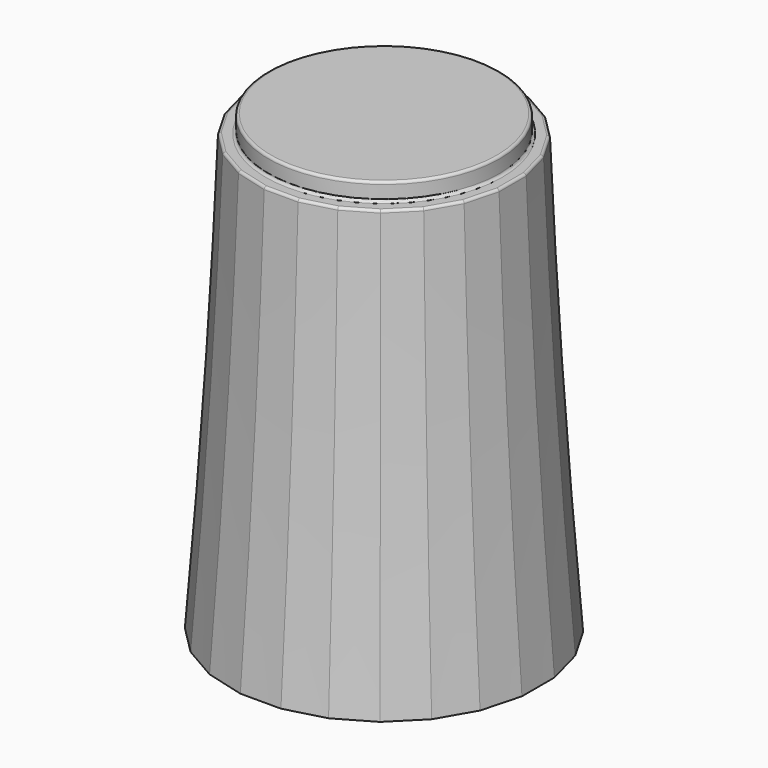
from build123d import *

# Parameters (mm, degrees)
SKETCH351_R     = 4.5
PAD060_DEPTH    = 0.7
SKETCH352_R     = 5
POCKET050_DEPTH = 1
SKETCH342_R     = 4.65
POCKET051_DEPTH = 1
POCKET052_DEPTH = 8
CHAMFER041_SIZE = 1.4
CHAMFER042_SIZE = 0.3
FILLET022_R     = 0.1


with BuildPart() as part:
    # Sketch349 → AdditiveLoft016 section 0
    with BuildSketch(Plane.XY):
        Polygon((-0.789915, 6), (-2.315914, 5.59111), (-3.684086, 4.801195), (-4.801195, 3.684086), (-5.59111, 2.315914), (-6, 0.789915), (-6, -0.789915), (-5.59111, -2.315914), (-4.801195, -3.684086), (-3.684086, -4.801195), (-2.315914, -5.59111), (-0.789915, -6), (0.789915, -6), (2.315914, -5.59111), (3.684086, -4.801195), (4.801195, -3.684086), (5.59111, -2.315914), (6, -0.789915), (6, 0.789915), (5.59111, 2.315914), (4.801195, 3.684086), (3.684086, 4.801195), (2.315914, 5.59111), (0.789915, 6), align=None)
    # Sketch348 → AdditiveLoft016 section 1
    with BuildSketch(Plane.XY.offset(7)):
        Polygon((-0.724089, 5.5), (-2.122921, 5.125184), (-3.377079, 4.401095), (-4.401095, 3.377079), (-5.125184, 2.122921), (-5.5, 0.724089), (-5.5, -0.724089), (-5.125184, -2.122921), (-4.401095, -3.377079), (-3.377079, -4.401095), (-2.122921, -5.125184), (-0.724089, -5.5), (0.724089, -5.5), (2.122921, -5.125184), (3.377079, -4.401095), (4.401095, -3.377079), (5.125184, -2.122921), (5.5, -0.724089), (5.5, 0.724089), (5.125184, 2.122921), (4.401095, 3.377079), (3.377079, 4.401095), (2.122921, 5.125184), (0.724089, 5.5), align=None)
    # Sketch350 → AdditiveLoft016 section 2
    with BuildSketch(Plane.XY.offset(17)):
        Polygon((-4.659258, 1.929928), (-5, 0.658262), (-5, -0.658262), (-4.659258, -1.929928), (-4.000996, -3.070072), (-3.070072, -4.000996), (-1.929928, -4.659258), (-0.658262, -5), (0.658262, -5), (1.929928, -4.659258), (3.070072, -4.000996), (4.000996, -3.070072), (4.659258, -1.929928), (5, -0.658262), (5, 0.658262), (4.659258, 1.929928), (4.000996, 3.070072), (3.070072, 4.000996), (1.929928, 4.659258), (0.658262, 5), (-0.658262, 5), (-1.929928, 4.659258), (-3.070072, 4.000996), (-4.000996, 3.070072), align=None)
    loft()

    # Sketch351 (on Face3 of AdditiveLoft016) → Pad060 (new body)
    with BuildSketch(Plane.XY.offset(17)):
        Circle(SKETCH351_R)
    extrude(amount=PAD060_DEPTH)

    # Sketch352 (on Face1 of Pad060) → Pocket050 (cut)
    with BuildSketch(Plane(origin=(0, 0, 0), x_dir=(1, 0, 0), z_dir=(0, 0, -1))):
        Circle(SKETCH352_R)
    extrude(amount=-POCKET050_DEPTH, mode=Mode.SUBTRACT)

    # Sketch342 (on Face28 of Pocket050) → Pocket051 (cut)
    with BuildSketch(Plane(origin=(0, 0, 1), x_dir=(1, 0, 0), z_dir=(0, 0, -1))):
        Circle(SKETCH342_R)
    extrude(amount=-POCKET051_DEPTH, mode=Mode.SUBTRACT)

    # Sketch353 (on Face32 of Pocket051) → Pocket052 (cut)
    with BuildSketch(Plane(origin=(0, 0, 2), x_dir=(1, 0, 0), z_dir=(0, 0, -1))):
        with BuildLine():
            ThreePointArc((-1.741757, 2.442598), (0, -3), (1.741757, 2.442598))
            Line((-1.741757, 2.442598), (1.741757, 2.442598))
        make_face()
    extrude(amount=-POCKET052_DEPTH, mode=Mode.SUBTRACT)

    # Chamfer041
    chamfer041_edges = [part.edges().sort_by_distance(p)[0] for p in [
        (0, 3, 2),
        (0, -2.442598, 2),
    ]]
    chamfer(chamfer041_edges, length=CHAMFER041_SIZE)

    # Chamfer042
    chamfer042_edges = [part.edges().sort_by_distance(p)[0] for p in [
        (-4.65, 0, 1),
    ]]
    chamfer(chamfer042_edges, length=CHAMFER042_SIZE)

    # Fillet022
    fillet022_edges = [part.edges().sort_by_distance(p)[0] for p in [
        (-4.5, 0, 17.7),
        (-4.829629, 1.294095, 17),
        (-4.330127, 2.5, 17),
        (-5, 0, 17),
        (-3.535534, 3.535534, 17),
        (-4.829629, -1.294095, 17),
        (-2.5, 4.330127, 17),
        (-4.330127, -2.5, 17),
        (-1.294095, 4.829629, 17),
        (-3.535534, -3.535534, 17),
        (0, 5, 17),
        (-2.5, -4.330127, 17),
        (1.294095, 4.829629, 17),
        (-1.294095, -4.829629, 17),
        (2.5, 4.330127, 17),
        (0, -5, 17),
        (3.535534, 3.535534, 17),
        (1.294095, -4.829629, 17),
        (4.330127, 2.5, 17),
        (2.5, -4.330127, 17),
        (4.829629, 1.294095, 17),
        (3.535534, -3.535534, 17),
        (5, 0, 17),
        (4.330127, -2.5, 17),
        (4.829629, -1.294095, 17),
        (-4.5, 0, 17),
    ]]
    fillet(fillet022_edges, radius=FILLET022_R)


solid = part.part
